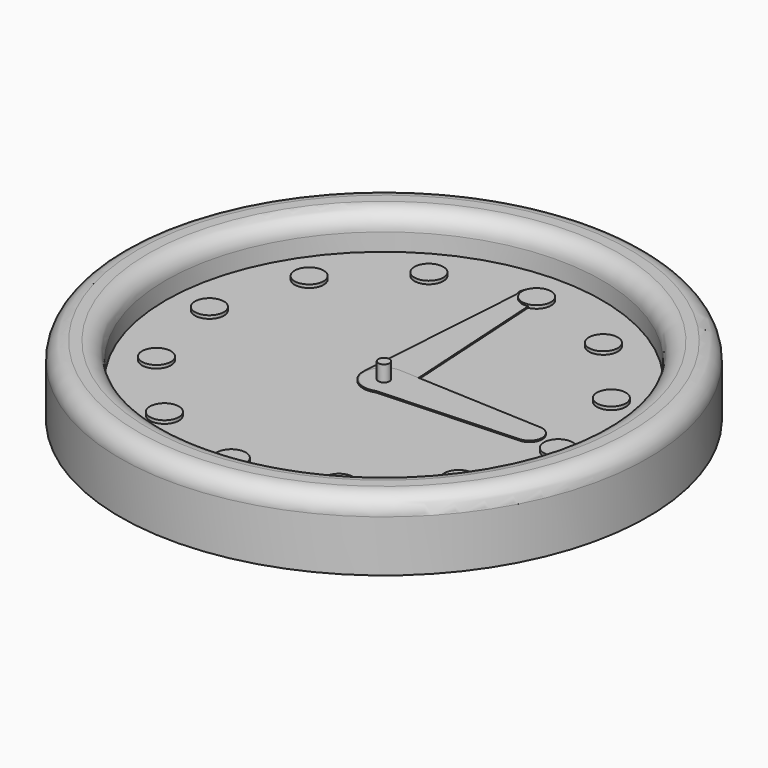
from build123d import *

# Parameters (mm, degrees)
F2_R      = 4.096399
F3_DEPTH  = 10.5
F5_COUNT  = 12
F6_R      = 1.582314
F7_DEPTH  = 14.5
F9_DEPTH  = 10
F11_DEPTH = 10


with BuildPart() as f1:
    # F0 (on Front) → F1 (revolve)
    with BuildSketch(Plane.XZ):
        with BuildLine():
            Line((-74.599028, 0), (0, 0))
            Line((0, 0), (0, 9.606551))
            Line((0, 9.606551), (-61.662277, 9.606551))
            Line((-61.662277, 9.606551), (-61.662277, 14.568902))
            ThreePointArc((-61.662277, 14.568902), (-63.126743, 18.104435), (-66.662277, 19.568902))
            Line((-66.662277, 19.568902), (-69.599028, 19.568902))
            ThreePointArc((-69.599028, 19.568902), (-73.134562, 18.104435), (-74.599028, 14.568902))
            Line((-74.599028, 14.568902), (-74.599028, 9.606551))
            Line((-74.599028, 9.606551), (-74.599028, 0))
        make_face()
    revolve(axis=Axis((0, 0, 32.081138), (0, 0, 1)))

    # F6 (on Top) → F7 (join)
    with BuildSketch(Plane.XY):
        Circle(F6_R)
    extrude(amount=F7_DEPTH)


with BuildPart() as f3:
    # F2 (on Top) → F3 (new body)
    with BuildSketch(Plane.XY):
        with Locations((-51.116344, 2.253389)):
            Circle(F2_R)
    extrude(amount=F3_DEPTH)


with BuildPart() as f5_1:
    # F5: instance of F3
    add(f3.part.rotate(Axis((0, 0, 23.133259), (0, 0, 1)), 1 * 360 / F5_COUNT))


with BuildPart() as f5_2:
    # F5: instance of F3
    add(f3.part.rotate(Axis((0, 0, 23.133259), (0, 0, 1)), 2 * 360 / F5_COUNT))


with BuildPart() as f5_3:
    # F5: instance of F3
    add(f3.part.rotate(Axis((0, 0, 23.133259), (0, 0, 1)), 3 * 360 / F5_COUNT))


with BuildPart() as f5_4:
    # F5: instance of F3
    add(f3.part.rotate(Axis((0, 0, 23.133259), (0, 0, 1)), 4 * 360 / F5_COUNT))


with BuildPart() as f5_5:
    # F5: instance of F3
    add(f3.part.rotate(Axis((0, 0, 23.133259), (0, 0, 1)), 5 * 360 / F5_COUNT))


with BuildPart() as f5_6:
    # F5: instance of F3
    add(f3.part.rotate(Axis((0, 0, 23.133259), (0, 0, 1)), 6 * 360 / F5_COUNT))


with BuildPart() as f5_7:
    # F5: instance of F3
    add(f3.part.rotate(Axis((0, 0, 23.133259), (0, 0, 1)), 7 * 360 / F5_COUNT))


with BuildPart() as f5_8:
    # F5: instance of F3
    add(f3.part.rotate(Axis((0, 0, 23.133259), (0, 0, 1)), 8 * 360 / F5_COUNT))


with BuildPart() as f5_9:
    # F5: instance of F3
    add(f3.part.rotate(Axis((0, 0, 23.133259), (0, 0, 1)), 9 * 360 / F5_COUNT))


with BuildPart() as f5_10:
    # F5: instance of F3
    add(f3.part.rotate(Axis((0, 0, 23.133259), (0, 0, 1)), 10 * 360 / F5_COUNT))


with BuildPart() as f5_11:
    # F5: instance of F3
    add(f3.part.rotate(Axis((0, 0, 23.133259), (0, 0, 1)), 11 * 360 / F5_COUNT))


with BuildPart() as f9:
    # F8 (on Top) → F9 (new body)
    with BuildSketch(Plane.XY):
        with BuildLine():
            Line((-2.493216, 50.051985), (-5.853674, 0.396147))
            ThreePointArc((-5.853674, 0.396147), (-0.023362, -5.867017), (5.856643, 0.349517))
            Line((5.856643, 0.349517), (2.812753, 51.35408))
            ThreePointArc((2.812753, 51.35408), (-0.670365, 54.085781), (-2.493216, 50.051985))
        make_face()
    extrude(amount=F9_DEPTH)


with BuildPart() as f11:
    # F10 (on Top) → F11 (new body)
    with BuildSketch(Plane.XY):
        with BuildLine():
            Line((0, 5.566754), (0.519894, 5.542424))
            ThreePointArc((0.519894, 5.542424), (0.260231, 5.560668), (0, 5.566754))
        make_face()
        with BuildLine():
            Line((41.307226, 3.633635), (0.519894, 5.542424))
            Line((0.519894, 5.542424), (0, 5.566754))
            ThreePointArc((0, 5.566754), (-5.566754, 0), (0, -5.566754))
            Line((0, -5.566754), (0.519894, -5.542424))
            Line((0.519894, -5.542424), (41.307226, -3.633635))
            ThreePointArc((41.307226, -3.633635), (44.77479, 0), (41.307226, 3.633635))
        make_face()
        with BuildLine():
            Line((0.519894, -5.542424), (0, -5.566754))
            ThreePointArc((0, -5.566754), (0.260231, -5.560668), (0.519894, -5.542424))
        make_face()
    extrude(amount=F11_DEPTH)


solid = Compound([f1.part, f3.part, f5_1.part, f5_2.part, f5_3.part, f5_4.part, f5_5.part, f5_6.part, f5_7.part, f5_8.part, f5_9.part, f5_10.part, f5_11.part, f9.part, f11.part])
